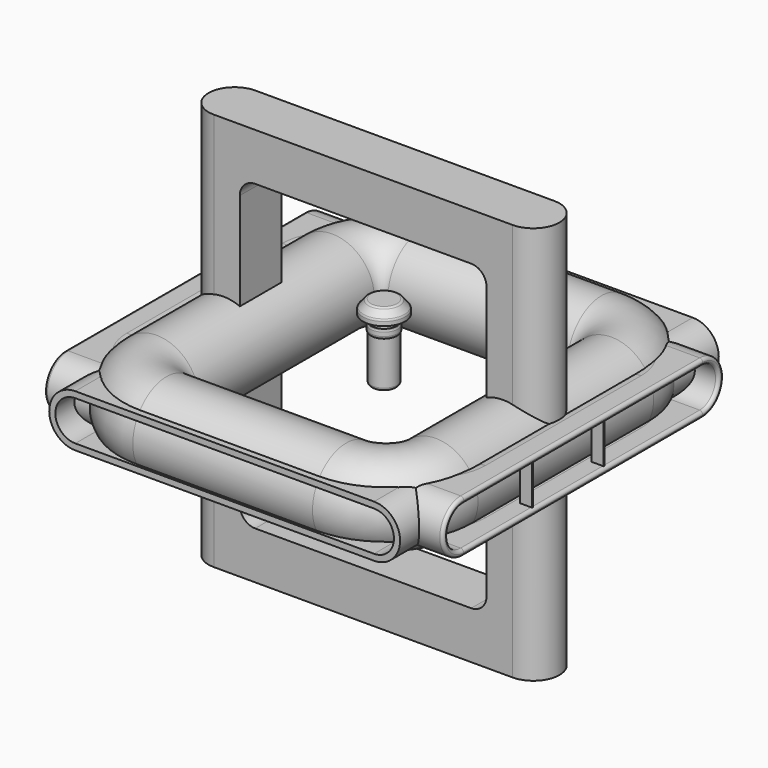
from build123d import *

# Parameters (mm, degrees)
PAD_DEPTH       = 65
POCKET_DEPTH    = 17.001
SKETCH007_R     = 6.5
POCKET006_DEPTH = 40.75
SKETCH005_R     = 13.756188
PAD001_DEPTH    = 65
SKETCH011_W     = 97.5
SKETCH011_H     = 110
POCKET003_DEPTH = 17.001
SKETCH020_W     = 137.5
SKETCH020_H     = 180
SKETCH020_W_2   = 97.5
SKETCH020_H_2   = 160
POCKET008_DEPTH = 17.001
PAD002_DEPTH    = 65
POCKET007_DEPTH = 17.001
FILLET_R        = 0.999
SKETCH022_W     = 4
SKETCH022_H     = 0.3
PAD003_DEPTH    = 13
FILLET001_R     = 1
FILLET002_R     = 1
FILLET003_R     = 1
FILLET004_R     = 1


with BuildPart() as body:
    # Sketch → Pad (new body, symmetric)
    with BuildSketch(Plane.XY):
        with BuildLine():
            ThreePointArc((-48.75, 8.5), (-57.25, 0), (-48.75, -8.5))
            Line((-48.75, -8.5), (48.75, -8.5))
            ThreePointArc((48.75, -8.5), (57.25, 0), (48.75, 8.5))
            Line((-48.75, 8.5), (48.75, 8.5))
        make_face()
    extrude(amount=PAD_DEPTH, both=True)

    # Sketch001 (on Face2 of Pad) → Pocket (cut, through all)
    with BuildSketch(Plane.XZ.offset(8.5)):
        with BuildLine():
            Line((-35.25, 49.5), (35.25, 49.5))
            ThreePointArc((40.25, 44.5), (38.785534, 48.035534), (35.25, 49.5))
            Line((40.25, 44.5), (40.25, -44.5))
            ThreePointArc((35.25, -49.5), (38.785534, -48.035534), (40.25, -44.5))
            Line((35.25, -49.5), (-35.25, -49.5))
            ThreePointArc((-40.25, -44.5), (-38.785534, -48.035534), (-35.25, -49.5))
            Line((-40.25, -44.5), (-40.25, 44.5))
            ThreePointArc((-35.25, 49.5), (-38.785534, 48.035534), (-40.25, 44.5))
        make_face()
    extrude(amount=-POCKET_DEPTH, mode=Mode.SUBTRACT)

    # SubtractivePipe: sweep along a path in Sketch008
    with BuildLine(Plane.XZ) as subtractivepipe_path:
        Line((-40.75, 58), (40.75, 58))
        ThreePointArc((40.75, 58), (46.406854, 55.656854), (48.75, 50))
        Line((48.75, 50), (48.75, -50))
        ThreePointArc((48.75, -50), (46.406854, -55.656854), (40.75, -58))
        Line((40.75, -58), (-40.75, -58))
        ThreePointArc((-40.75, -58), (-46.406854, -55.656854), (-48.75, -50))
        Line((-48.75, -50), (-48.75, 50))
        ThreePointArc((-48.75, 50), (-46.406854, 55.656854), (-40.75, 58))
    # Sketch007 → SubtractivePipe (sweep, cut)
    with BuildSketch(Plane.XY):
        with Locations((-48.75, 0)):
            Circle(SKETCH007_R)
    sweep(path=subtractivepipe_path.line, mode=Mode.SUBTRACT)

    # Sketch003 → Pocket006 (cut, symmetric)
    with BuildSketch(Plane.YZ):
        with BuildLine():
            Line((-6.5, -65), (6.5, -65))
            Line((6.5, -65), (6.5, -58))
            ThreePointArc((6.5, -58), (0, -51.5), (-6.5, -58))
            Line((-6.5, -65), (-6.5, -58))
        make_face()
    extrude(amount=POCKET006_DEPTH, both=True, mode=Mode.SUBTRACT)


with BuildPart() as body001:
    # AdditivePipe: sweep along a path in Sketch006
    with BuildLine(Plane.XY) as additivepipe_path:
        Line((-29.321431, 54.156668), (29.321431, 54.156668))
        ThreePointArc((29.321431, 54.156668), (42.29664, 48.782161), (47.671147, 35.806952))
        Line((47.671147, 35.806952), (47.671147, -35.806952))
        ThreePointArc((47.671147, -35.806952), (42.29664, -48.782161), (29.321431, -54.156668))
        Line((29.321431, -54.156668), (-29.321431, -54.156668))
        ThreePointArc((-29.321431, -54.156668), (-42.29664, -48.782161), (-47.671147, -35.806952))
        Line((-47.671147, -35.806952), (-47.671147, 35.806952))
        ThreePointArc((-47.671147, 35.806952), (-42.29664, 48.782161), (-29.321431, 54.156668))
    # Sketch005 → AdditivePipe (sweep)
    with BuildSketch(Plane.XZ):
        with Locations((-45.579243, 0)):
            Circle(SKETCH005_R)
    sweep(path=additivepipe_path.line)


with BuildPart() as body002:
    # Sketch009 → Pad001 (new body, symmetric)
    with BuildSketch(Plane.XZ):
        with BuildLine():
            ThreePointArc((-48.75, 8.5), (-57.25, 0), (-48.75, -8.5))
            Line((-48.75, -8.5), (48.75, -8.5))
            ThreePointArc((48.75, -8.5), (57.25, 0), (48.75, 8.5))
            Line((-48.75, 8.5), (48.75, 8.5))
        make_face()
        with BuildLine():
            ThreePointArc((-48.75, 6.5), (-55.25, 0), (-48.75, -6.5))
            Line((-48.75, -6.5), (48.75, -6.5))
            ThreePointArc((48.75, -6.5), (55.25, 0), (48.75, 6.5))
            Line((-48.75, 6.5), (48.75, 6.5))
        make_face(mode=Mode.SUBTRACT)
    extrude(amount=PAD001_DEPTH, both=True)

    # Sketch011 (on Face4 of Pad001) → Pocket003 (cut, through all)
    with BuildSketch(Plane(origin=(0, 0, 8.5), x_dir=(-1, 0, 0), z_dir=(0, 0, 1))):
        Rectangle(SKETCH011_W, SKETCH011_H)
    extrude(amount=-POCKET003_DEPTH, mode=Mode.SUBTRACT)


with BuildPart() as body003:
    # AdditivePipe001: sweep along a path in Sketch015
    with BuildLine(Plane.XY) as additivepipe001_path:
        Line((-41.5, 40.25), (41.5, 40.25))
        ThreePointArc((41.5, 40.25), (47.510408, 37.760408), (50, 31.75))
        Line((50, 31.75), (50, -31.75))
        ThreePointArc((50, -31.75), (47.510408, -37.760408), (41.5, -40.25))
        Line((41.5, -40.25), (-41.5, -40.25))
        ThreePointArc((-41.5, -40.25), (-47.510408, -37.760408), (-50, -31.75))
        Line((-50, -31.75), (-50, 31.75))
        ThreePointArc((-50, 31.75), (-47.510408, 37.760408), (-41.5, 40.25))
    # Sketch017 → AdditivePipe001 (sweep)
    with BuildSketch(Plane.YZ):
        with BuildLine():
            Line((-52.75, 8.5), (-48.75, 8.5))
            ThreePointArc((-48.75, -8.5), (-40.25, 0), (-48.75, 8.5))
            Line((-52.75, -8.5), (-48.75, -8.5))
            Line((-52.75, -6.5), (-52.75, -8.5))
            Line((-48.75, -6.5), (-52.75, -6.5))
            ThreePointArc((-48.75, -6.5), (-42.25, 0), (-48.75, 6.5))
            Line((-52.75, 6.5), (-48.75, 6.5))
            Line((-52.75, 8.5), (-52.75, 6.5))
        make_face()
    sweep(path=additivepipe001_path.line)

    # Sketch020 (on Face3 of AdditivePipe001) → Pocket008 (cut, through all)
    with BuildSketch(Plane.YX.offset(8.5)):
        Rectangle(SKETCH020_W, SKETCH020_H)
        Rectangle(SKETCH020_W_2, SKETCH020_H_2, mode=Mode.SUBTRACT)
    extrude(amount=-POCKET008_DEPTH, mode=Mode.SUBTRACT)


with BuildPart() as handle:
    # Sketch018 → Pad002 (new body, symmetric)
    with BuildSketch(Plane.YZ):
        with BuildLine():
            ThreePointArc((-48.75, 8.5), (-57.25, 0), (-48.75, -8.5))
            Line((-48.75, -8.5), (48.75, -8.5))
            ThreePointArc((48.75, -8.5), (57.25, 0), (48.75, 8.5))
            Line((-48.75, 8.5), (48.75, 8.5))
        make_face()
        with BuildLine():
            ThreePointArc((-48.75, 6.5), (-55.25, 0), (-48.75, -6.5))
            Line((-48.75, -6.5), (48.75, -6.5))
            ThreePointArc((48.75, -6.5), (55.25, 0), (48.75, 6.5))
            Line((-48.75, 6.5), (48.75, 6.5))
        make_face(mode=Mode.SUBTRACT)
    extrude(amount=PAD002_DEPTH, both=True)

    # Sketch019 (on Face2 of Pad002) → Pocket007 (cut, through all)
    with BuildSketch(Plane.YX.offset(8.5)):
        with BuildLine():
            Line((-40.25, 58.5), (40.25, 58.5))
            ThreePointArc((48.75, 50), (46.260408, 56.010408), (40.25, 58.5))
            Line((48.75, 50), (48.75, -50))
            ThreePointArc((40.25, -58.5), (46.260408, -56.010408), (48.75, -50))
            Line((40.25, -58.5), (-40.25, -58.5))
            ThreePointArc((-48.75, -50), (-46.260408, -56.010408), (-40.25, -58.5))
            Line((-48.75, -50), (-48.75, 50))
            ThreePointArc((-40.25, 58.5), (-46.260408, 56.010408), (-48.75, 50))
        make_face()
    extrude(amount=-POCKET007_DEPTH, mode=Mode.SUBTRACT)

    # Fillet
    fillet_edges = [handle.edges().sort_by_distance(p)[0] for p in [
        (-65, 0, -8.5),
        (-65, 0, -6.5),
        (65, 0, 8.5),
        (65, 0, 6.5),
    ]]
    fillet(fillet_edges, radius=FILLET_R)

    # Boolean: union Body003
    add(body003.part)

    # Sketch022 (on Face58 of Boolean) → Pad003 (join)
    with BuildSketch(Plane.XY.offset(-6.5)):
        with Locations((62.301, 9.404118)):
            Rectangle(SKETCH022_W, SKETCH022_H)
        with Locations((62.301, -19.828548)):
            Rectangle(SKETCH022_W, SKETCH022_H)
    extrude(amount=PAD003_DEPTH)


with BuildPart() as pin:
    # Sketch021 → Revolution (revolve)
    with BuildSketch(Plane.XZ):
        Polygon((0, 0), (-4.2, 0), (-4.2, 15.180385), (-4.5, 15.7), (-4.5, 17.5), (-4.2, 18.019615), (-4.2, 20.2), (-6.9, 20.2), (-6.9, 21.9), (-4.75, 24.5), (0, 24.5), align=None)
    revolve(axis=Axis((0, 0, 0), (0, 0, 1)))

    # Fillet001
    fillet001_edges = [pin.edges().sort_by_distance(p)[0] for p in [
        (4.2, 0, 0),
    ]]
    fillet(fillet001_edges, radius=FILLET001_R)

    # Fillet002
    fillet002_edges = [pin.edges().sort_by_distance(p)[0] for p in [
        (4.5, 0, 15.7),
    ]]
    fillet(fillet002_edges, radius=FILLET002_R)

    # Fillet003
    fillet003_edges = [pin.edges().sort_by_distance(p)[0] for p in [
        (4.5, 0, 17.5),
    ]]
    fillet(fillet003_edges, radius=FILLET003_R)

    # Fillet004
    fillet004_edges = [pin.edges().sort_by_distance(p)[0] for p in [
        (4.75, 0, 24.5),
        (6.9, 0, 21.9),
    ]]
    fillet(fillet004_edges, radius=FILLET004_R)


solid = Compound([body.part, body001.part, body002.part, handle.part, pin.part])
